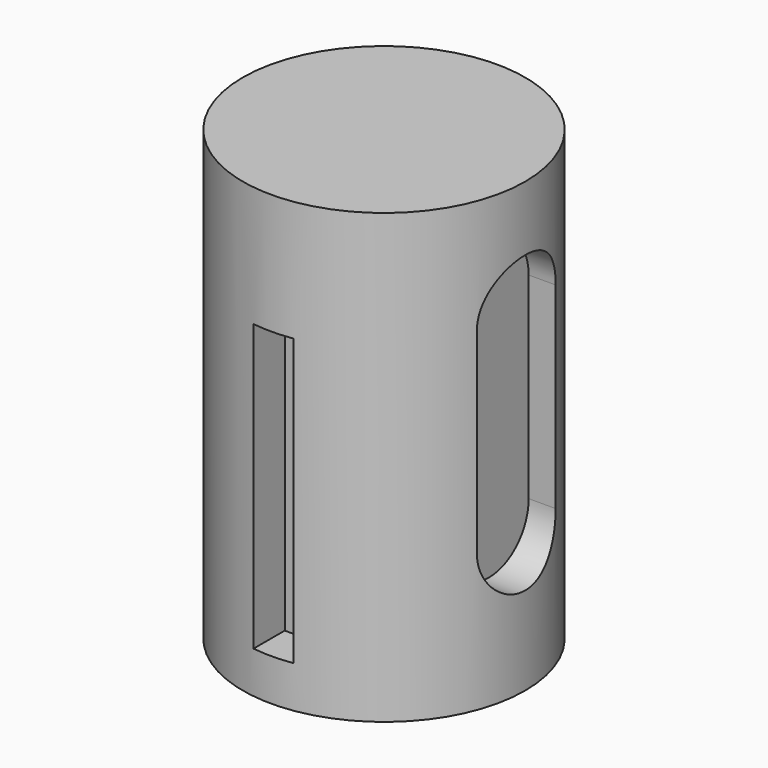
from build123d import *

# Parameters (mm, degrees)
SKETCH_R        = 31.501905
PAD_DEPTH       = 100
SKETCH001_W     = 8.851912
SKETCH001_H     = 63.773734
POCKET_DEPTH    = 8.5
POCKET001_DEPTH = 7.5


with BuildPart() as part:
    # Sketch (on Sketch) → Pad (new body)
    with BuildSketch(Plane.XY):
        Circle(SKETCH_R)
    extrude(amount=PAD_DEPTH)

    # Sketch001 (on Sketch) → Pocket (cut, symmetric)
    with BuildSketch(Plane(origin=(-2, -31, 0), x_dir=(1, 0, 0), z_dir=(0, -1, 0))):
        with Locations((2.276907, 41.234547)):
            Rectangle(SKETCH001_W, SKETCH001_H)
    extrude(amount=POCKET_DEPTH, both=True, mode=Mode.SUBTRACT)

    # Sketch002 → Pocket001 (cut, symmetric)
    with BuildSketch(Plane.YZ.offset(31)):
        with BuildLine():
            ThreePointArc((10.983905, 74.589867), (0, 85.573772), (-10.983905, 74.589867))
            Line((-10.983905, 74.589867), (-10.983905, 30.654249))
            ThreePointArc((-10.983905, 30.654249), (0, 19.670344), (10.983905, 30.654249))
            Line((10.983905, 30.654249), (10.983905, 74.589867))
        make_face()
    extrude(amount=POCKET001_DEPTH, both=True, mode=Mode.SUBTRACT)


solid = part.part
